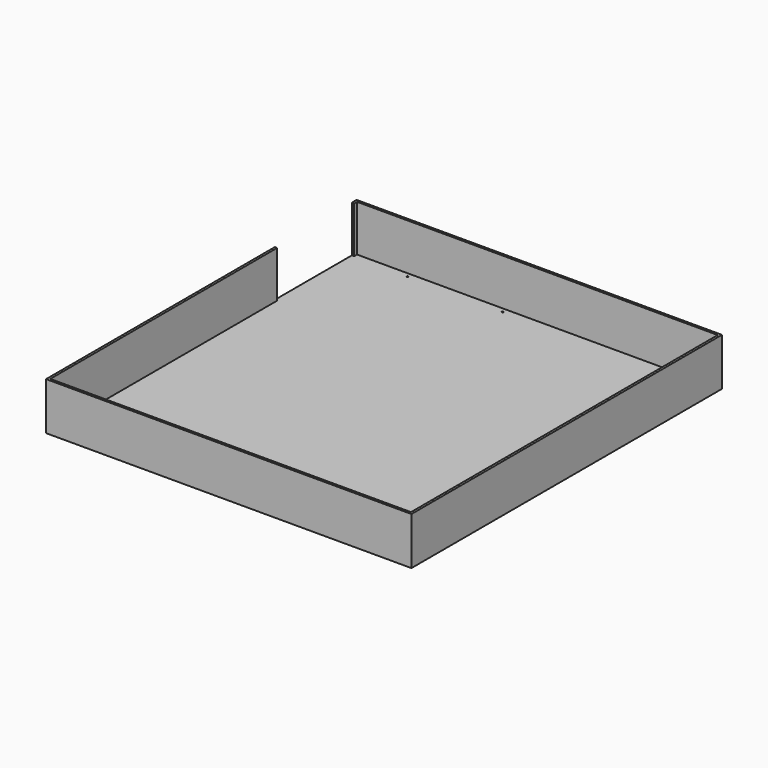
from build123d import *

# Parameters (mm, degrees)
F0_W     = 3147
F0_H     = 3343
F1_DEPTH = 10
F3_DEPTH = 400
F4_R     = 7.5
F5_DEPTH = 25


with BuildPart() as f1:
    # F0 (on Top) → F1 (new body)
    with BuildSketch(Plane.XY):
        with Locations((420.407998, -1366.255973)):
            Rectangle(F0_W, F0_H)
    extrude(amount=F1_DEPTH)

    # F2 (on face) → F3 (join)
    with BuildSketch(Plane.XY.offset(10)):
        Polygon((-1153.092002, 305.244027), (-1153.092002, 255.244027), (-1133.092002, 255.244027), (-1133.092002, 285.244027), (1973.907998, 285.244027), (1973.907998, -3017.755973), (-1133.092002, -3017.755973), (-1133.092002, -574.755973), (-1153.092002, -574.755973), (-1153.092002, -3037.755973), (1993.907998, -3037.755973), (1993.907998, 305.244027), align=None)
        Polygon((-1153.092002, 305.244027), (-1153.092002, 255.244027), (-1133.092002, 255.244027), (-1133.092002, 285.244027), (1973.907998, 285.244027), (1973.907998, -3017.755973), (-1133.092002, -3017.755973), (-1133.092002, -574.755973), (-1153.092002, -574.755973), (-1153.092002, -3037.755973), (1993.907998, -3037.755973), (1993.907998, 305.244027), align=None)
    extrude(amount=F3_DEPTH)

    # F4 (on face) → F5 (cut)
    with BuildSketch(Plane.XY.offset(10)):
        with Locations((-667.092002, 245.244027)):
            Circle(F4_R)
        with Locations((152.907998, 245.244027)):
            Circle(F4_R)
    extrude(amount=-F5_DEPTH, mode=Mode.SUBTRACT)


solid = f1.part
